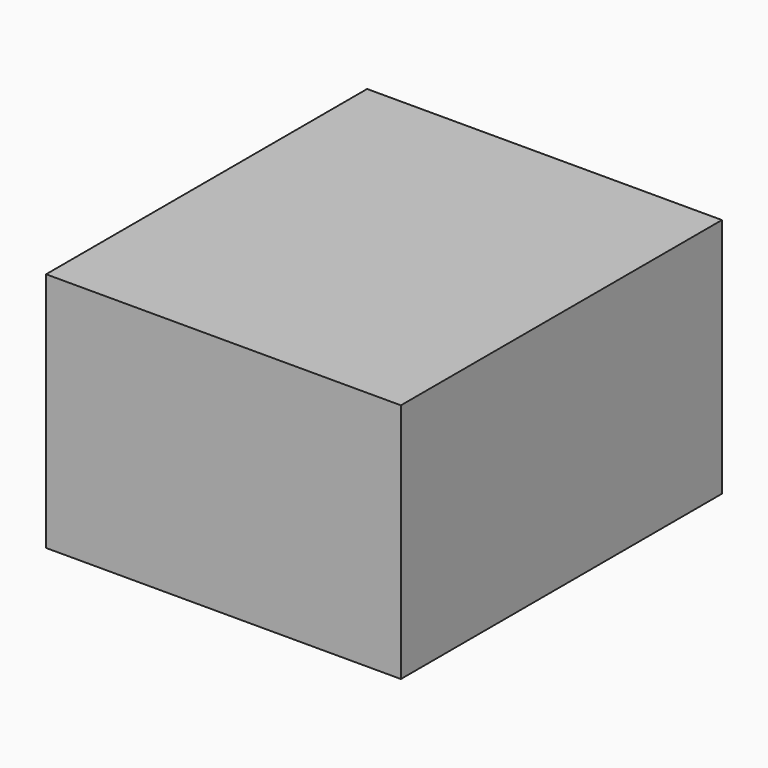
from build123d import *

# Parameters (mm, degrees)
SKETCH006_W  = 14.724436
SKETCH006_H  = 16.652635
PAD001_DEPTH = 10


with BuildPart() as part:
    # Sketch006 → Pad001 (new body)
    with BuildSketch(Plane.XY):
        with Locations((0.06637, 0.264245)):
            Rectangle(SKETCH006_W, SKETCH006_H)
    extrude(amount=PAD001_DEPTH)


solid = part.part
